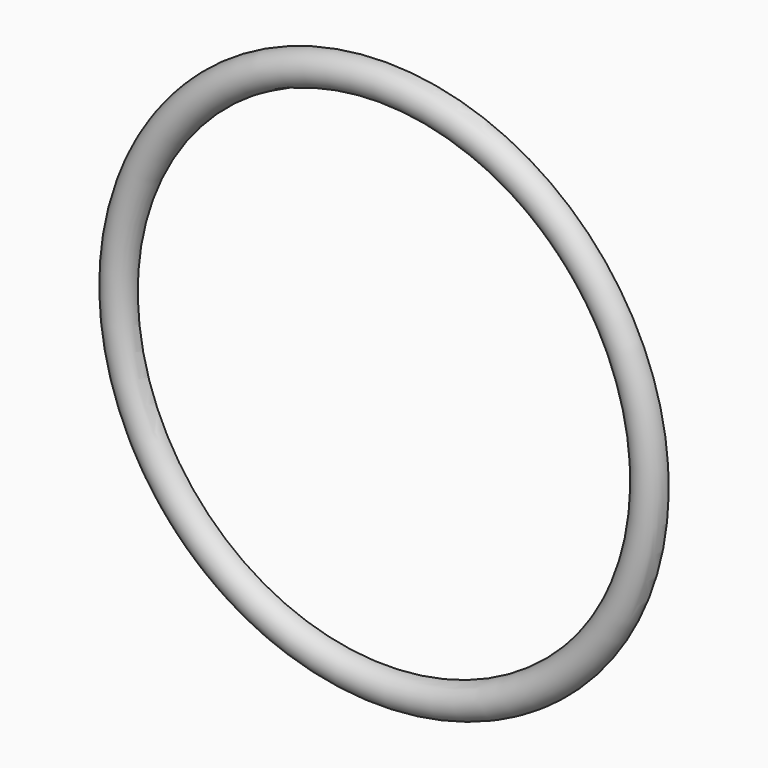
from build123d import *


with BuildPart() as f2:
    # F1 (on Right) → F2 (revolve)
    with BuildSketch(Plane.YZ):
        with BuildLine():
            Line((0, 59.4574293576), (0, 67.5429919281))
            ThreePointArc((0, 67.5429919281), (-4.0427812853, 63.5002106428), (0, 59.4574293576))
        make_face()
    revolve(axis=Axis((0, 0, 0), (0, -1, 0)))


solid = f2.part
